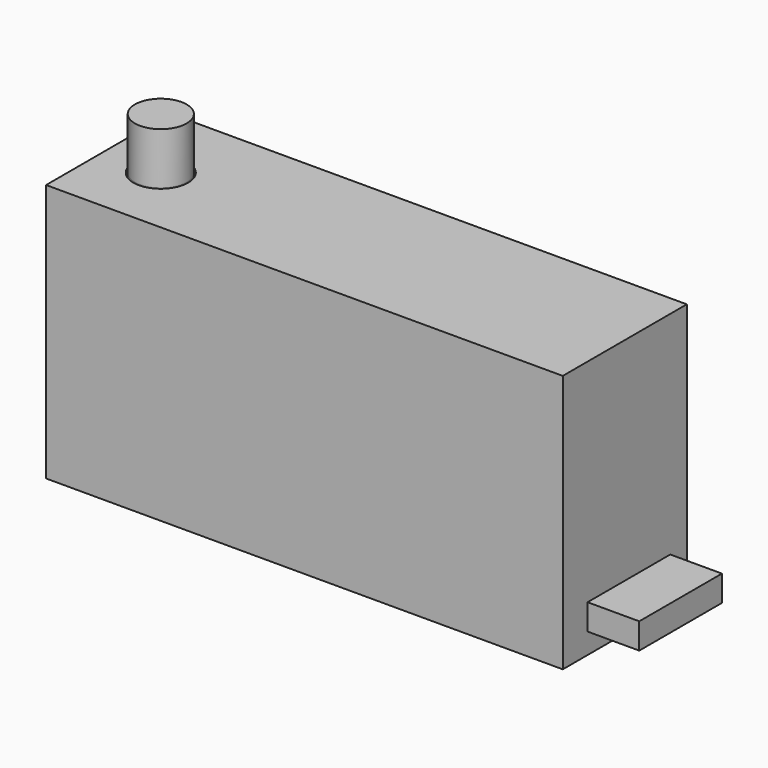
from build123d import *

# Parameters (mm, degrees)
BOX001_W     = 100
BOX001_H     = 200
BOX001_DEPTH = 50
BOX_W        = 1000
BOX_H        = 300
BOX_DEPTH    = 500
SKETCH001_R  = 50
PAD_DEPTH    = 100


with BuildPart() as box001:
    # Box001 → Box001 (new body)
    with BuildSketch(Plane(origin=(890, -80, 40), x_dir=(1, 0, 0), z_dir=(0, 0, 1))):
        with Locations((50, 100)):
            Rectangle(BOX001_W, BOX001_H)
    extrude(amount=BOX001_DEPTH)


with BuildPart() as body:
    # Sketch → Revolution (revolve)
    with BuildSketch(Plane.XZ):
        with BuildLine():
            Line((-50, 649.259148), (-50, 150))
            ThreePointArc((-51.149586, 145.344876), (-50.29165, 147.602515), (-50, 150))
            Line((-51.149586, 145.344876), (-75, 100))
            Line((-75, 100), (-78, 100))
            Line((-78, 100), (-53.804711, 146.000561))
            ThreePointArc((-53.804711, 146.000561), (-53.204155, 147.580909), (-53, 149.259148))
            Line((-53, 149.259148), (-53, 649.259148))
            Line((-53, 649.259148), (-50, 649.259148))
        make_face()
    revolve(axis=Axis((0, 0, 0), (0, 0, 1)))


with BuildPart() as fusion:
    # Box → Box (new body)
    with BuildSketch(Plane(origin=(-110, -140, 0), x_dir=(1, 0, 0), z_dir=(0, 0, 1))):
        with Locations((500, 150)):
            Rectangle(BOX_W, BOX_H)
    extrude(amount=BOX_DEPTH)

    # Cut: cut Body
    add(body.part, mode=Mode.SUBTRACT)

    # Sketch001 (on Face14 of BaseFeature) → Pad (new body)
    with BuildSketch(Plane.XY.offset(500)):
        Circle(SKETCH001_R)
    extrude(amount=PAD_DEPTH)

    # Fusion: union Box001
    add(box001.part)


solid = fusion.part
